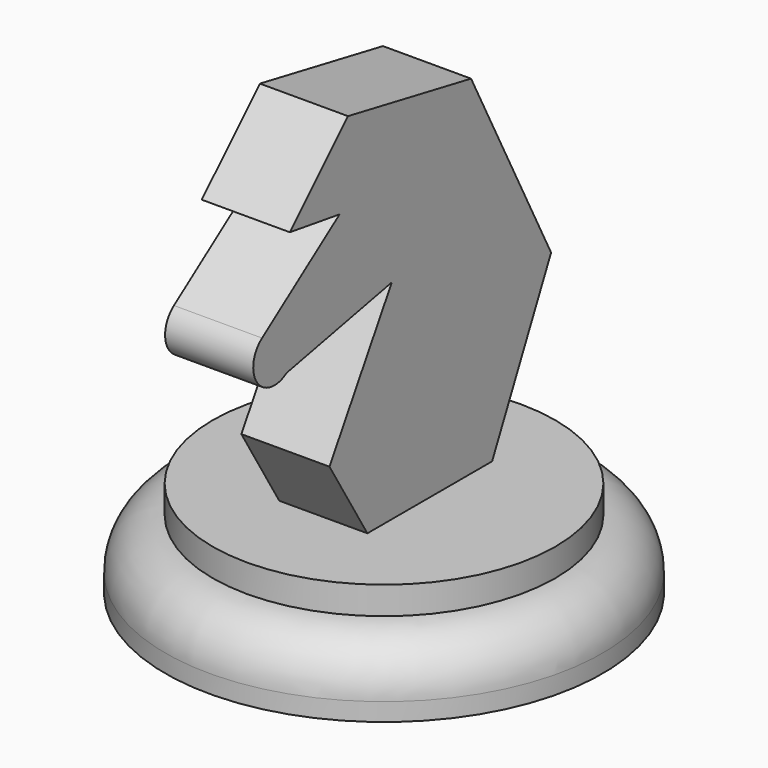
from build123d import *

# Parameters (mm, degrees)
F3_DEPTH = 12.5


with BuildPart() as f1:
    # F0 (on Front) → F1 (revolve)
    with BuildSketch(Plane.XZ):
        with BuildLine():
            Line((-62.035013, -59.488799), (0, -59.488799))
            Line((0, -59.488799), (0, -32.174874))
            Line((0, -32.174874), (-48.609525, -32.174874))
            Line((-48.609525, -32.174874), (-48.609525, -40.044986))
            ThreePointArc((-48.609525, -40.044986), (-58.155423, -44.57031), (-62.035013, -54.396372))
            Line((-62.035013, -54.396372), (-62.035013, -59.488799))
        make_face()
    revolve(axis=Axis((0, 0, -45.831837), (0, 0, -1)))


with BuildPart() as f3:
    # F2 (on Right) → F3 (new body)
    with BuildSketch(Plane.YZ):
        with BuildLine():
            Line((-21.518027, -31.82875), (22.713473, -31.82875))
            Line((22.713473, -31.82875), (43.633778, 11.80503))
            Line((43.633778, 11.80503), (15.241937, 66.795543))
            Line((15.241937, 66.795543), (-28.39184, 75.163662))
            Line((-28.39184, 75.163662), (-49.013283, 54.542221))
            Line((-49.013283, 54.542221), (-31.380456, 51.852472))
            Line((-31.380456, 51.852472), (-58.87571, 32.127611))
            ThreePointArc((-58.87571, 32.127611), (-60.628071, 21.696325), (-50.208729, 19.874288))
            Line((-50.208729, 19.874288), (-12.851043, 27.345827))
            Line((-12.851043, 27.345827), (-34.966797, -9.712999))
            Line((-34.966797, -9.712999), (-21.518027, -31.82875))
        make_face()
    extrude(amount=F3_DEPTH)

    # F4: F3 across face


with BuildPart() as f3_1:
    add(f3.part)
    add(f3.part.mirror(Plane(origin=(0, -3.927759, 20.688251), x_dir=(0, 1, 0), z_dir=(-1, 0, 0))))


solid = Compound([f1.part, f3_1.part])
